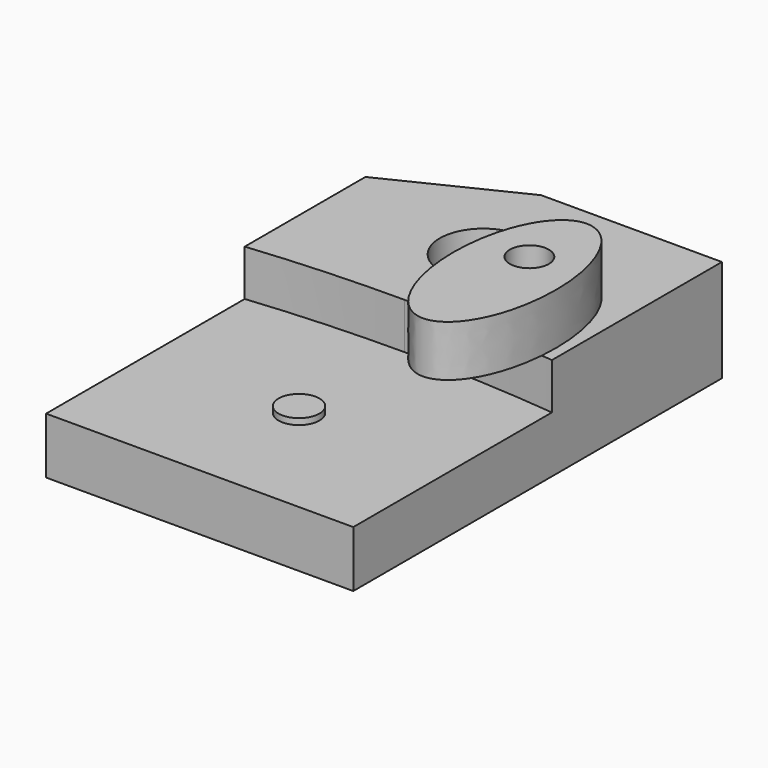
from build123d import *

# Parameters (mm, degrees)
F0_W          = 30
F0_H          = 25
F1_DEPTH      = 5.5
F0_H_2        = 20
F2_DEPTH      = 5.5
F2_DEPTH_BACK = 4.5
F4_DEPTH      = 4.5
F5_R          = 2
F6_DEPTH      = 0.6
F7_R          = 4.25
F8_DEPTH      = 5
F9_R          = 2.3
F10_DEPTH     = 25
F11_R         = 1.55
F12_DEPTH     = 25
F14_DEPTH     = 25
F15_R         = 1.9
F16_DEPTH     = 5


with BuildPart() as f1:
    # F0 (on Top) → F1 (new body)
    with BuildSketch(Plane.XY):
        with Locations((0, -10)):
            Rectangle(F0_W, F0_H)
    extrude(amount=-F1_DEPTH)

    # F0 (on Top) → F2 (join, two sides)
    with BuildSketch(Plane.XY) as f2_sk:
        with Locations((0, 12.5)):
            Rectangle(F0_W, F0_H_2)
    extrude(amount=-F2_DEPTH)
    extrude(f2_sk.sketch, amount=F2_DEPTH_BACK)

    # F3 (on face) → F4 (join, through all)
    with BuildSketch(Plane.XY):
        with BuildLine():
            ThreePointArc((0, 2.5), (7.509416259, 2.3119109665), (15, 1.748115566))
            Line((15, 1.748115566), (15, 2.5))
            Line((15, 2.5), (0, 2.5))
        make_face()
        with BuildLine():
            Line((-15, 2.5), (-15, 1.748115566))
            ThreePointArc((-15, 1.748115566), (-7.509416259, 2.3119109665), (0, 2.5))
            Line((0, 2.5), (-15, 2.5))
        make_face()
    extrude(amount=F4_DEPTH)

    # F5 (on face) → F6 (join)
    with BuildSketch(Plane.XY):
        with Locations((0, -10.375942217)):
            Circle(F5_R)
    extrude(amount=F6_DEPTH)

    # F7 (on face) → F8 (cut)
    with BuildSketch(Plane.XY.offset(4.5)):
        with Locations((0, 12.124057783)):
            Circle(F7_R)
    extrude(amount=-F8_DEPTH, mode=Mode.SUBTRACT)

    # F9 (on face) → F10 (cut)
    with BuildSketch(Plane.XY.offset(-0.5)):
        with Locations((0, 12.124057783)):
            Circle(F9_R)
    extrude(amount=-F10_DEPTH, mode=Mode.SUBTRACT)

    # F11 (on face) → F12 (cut)
    with BuildSketch(Plane.XY.offset(4.5)):
        with Locations((9, 6.5)):
            Circle(F11_R)
    extrude(amount=-F12_DEPTH, mode=Mode.SUBTRACT)

    # F13 (on face) → F14 (cut)
    with BuildSketch(Plane.XY.offset(4.5)):
        Polygon((-15, 16.480823502), (-2.6588593031, 22.5), (-15, 22.5), align=None)
    extrude(amount=-F14_DEPTH, mode=Mode.SUBTRACT)


with BuildPart() as f16:
    # F15 (on face) → F16 (new body)
    with BuildSketch(Plane.XY.offset(4.5)):
        with BuildLine():
            add(Edge.make_bspline(
                [(9, -6.5), (17.6602540378, -6.5), (13.3301270189, 8.5), (9, 23.5), (4.6698729811, 8.5), (0.3397459622, -6.5), (9, -6.5)],
                knots=[0, 0, 0, 2.0943951024, 2.0943951024, 4.1887902048, 4.1887902048, 6.2831853072, 6.2831853072, 6.2831853072], degree=2, weights=[1, 0.5, 1, 0.5, 1, 0.5, 1]))
        make_face()
        with Locations((9, 6.5)):
            Circle(F15_R, mode=Mode.SUBTRACT)
    extrude(amount=F16_DEPTH)


solid = Compound([f1.part, f16.part])
